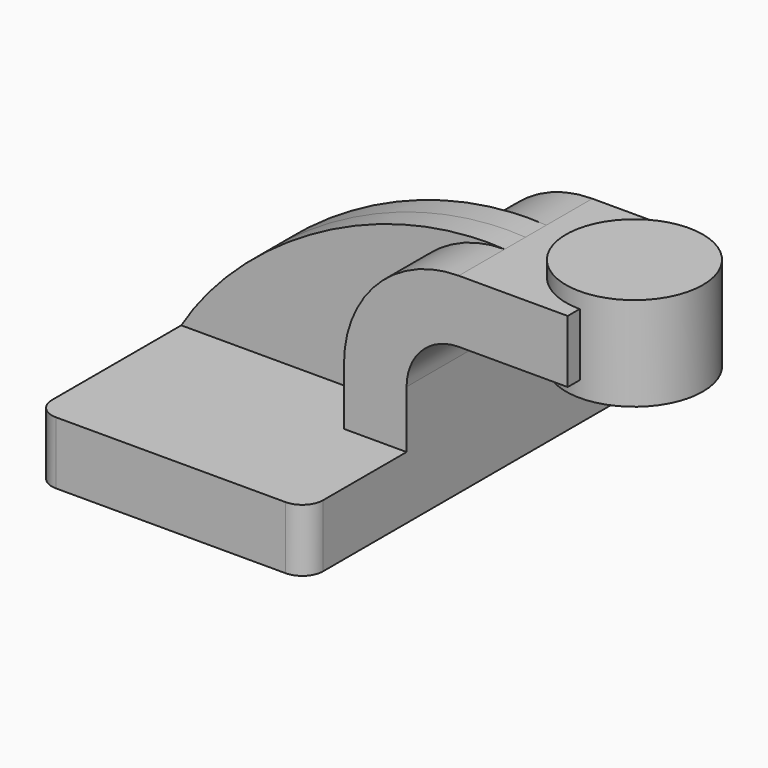
from build123d import *

# Parameters (mm, degrees)
F1_DEPTH = 63.5
F0_W     = 29.977046
F0_H     = 19.05
F2_DEPTH = 25.4
F3_DEPTH = 7.9375
F4_DEPTH = 25.4
F6_R     = 6.35


with BuildPart() as f1:
    # F0 (on Front) → F1 (new body, symmetric)
    with BuildSketch(Plane.XZ):
        Polygon((-41.275, -9.525), (41.275, -9.525), (41.275, 9.525), (22.225, 9.525), (-41.275, 9.525), align=None)
    extrude(amount=F1_DEPTH, both=True)

    # F0 (on Front) → F2 (join, symmetric)
    with BuildSketch(Plane.XZ):
        with BuildLine():
            Line((22.225, 9.525), (41.275, 9.525))
            Line((41.275, 9.525), (41.275, 27.0002))
            ThreePointArc((41.275, 27.0002), (45.92468, 38.22552), (57.15, 42.8752))
            Line((57.15, 42.8752), (60.325, 42.8752))
            Line((60.325, 42.8752), (60.325, 61.9252))
            Line((60.325, 61.9252), (57.15, 61.9252))
            ThreePointArc((57.15, 61.9252), (32.454296, 51.695904), (22.225, 27.0002))
            Line((22.225, 27.0002), (22.225, 9.525))
        make_face()
        with Locations((75.313523, 52.4002)):
            Rectangle(F0_W, F0_H)
    extrude(amount=F2_DEPTH, both=True)

    # F0 (on Front) → F3 (join, symmetric)
    with BuildSketch(Plane.XZ):
        with BuildLine():
            add(Edge.make_bspline(
                [(-41.275, 9.525), (-24.094082, 38.05327), (16.780648, 64.302877), (57.15, 61.9252)],
                knots=[0, 0, 0, 0, 111.504536, 111.504536, 111.504536, 111.504536], degree=3))
            Line((-41.275, 9.525), (22.225, 9.525))
            Line((22.225, 9.525), (22.225, 27.0002))
            ThreePointArc((22.225, 27.0002), (32.454296, 51.695904), (57.15, 61.9252))
        make_face()
    extrude(amount=F3_DEPTH, both=True)

    # F0 (on Front) → F4 (join, symmetric)
    with BuildSketch(Plane.XZ):
        with Locations((75.313523, 52.4002)):
            Rectangle(F0_W, F0_H)
    extrude(amount=F4_DEPTH, both=True)

    # F6
    f6_edges = [f1.edges().sort_by_distance(p)[0] for p in [
        (41.275, -63.5, 0),
        (-41.275, -63.5, 0),
        (41.275, 63.5, 0),
        (-41.275, 63.5, 0),
    ]]
    fillet(f6_edges, radius=F6_R)


with BuildPart() as f5:
    # F0 (on Front) → F5 (revolve)
    with BuildSketch(Plane.XZ):
        Polygon((90.302046, 66.675), (90.302046, 61.9252), (90.302046, 42.8752), (90.302046, 38.1), (111.125, 38.1), (111.125, 66.675), align=None)
    revolve(axis=Axis((90.302046, 0, 52.3875), (0, 0, -1)))


solid = Compound([f1.part, f5.part])
